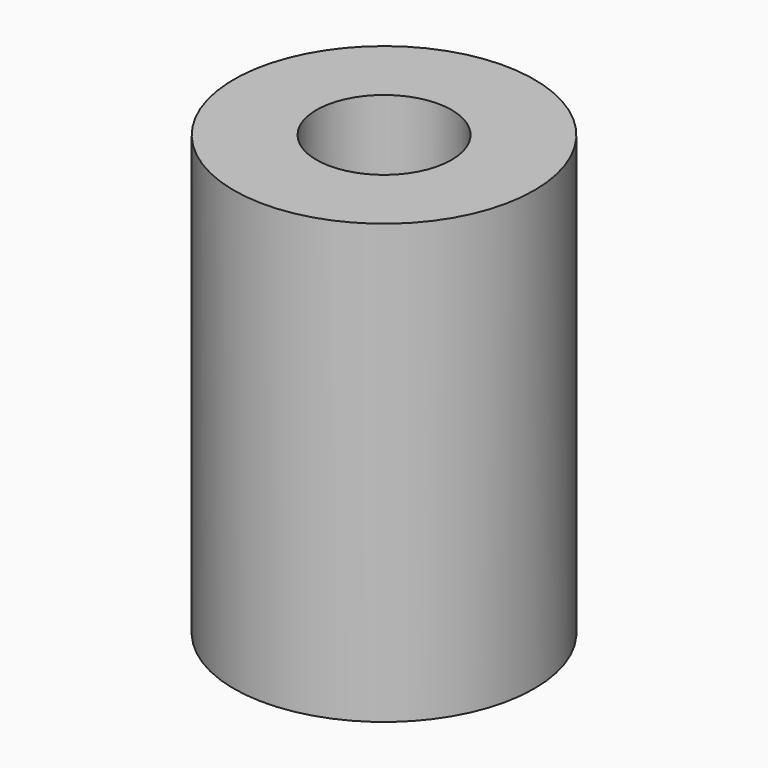
from build123d import *

# Parameters (mm, degrees)
SKETCH_R     = 5
PAD_DEPTH    = 14.6
SKETCH001_R  = 2.25
POCKET_DEPTH = 14.601


with BuildPart() as part:
    # Sketch → Pad (new body)
    with BuildSketch(Plane.XY):
        Circle(SKETCH_R)
    extrude(amount=PAD_DEPTH)

    # Sketch001 → Pocket (cut, through all)
    with BuildSketch(Plane.XY.offset(14.6)):
        Circle(SKETCH001_R)
    extrude(amount=-POCKET_DEPTH, mode=Mode.SUBTRACT)


solid = part.part
